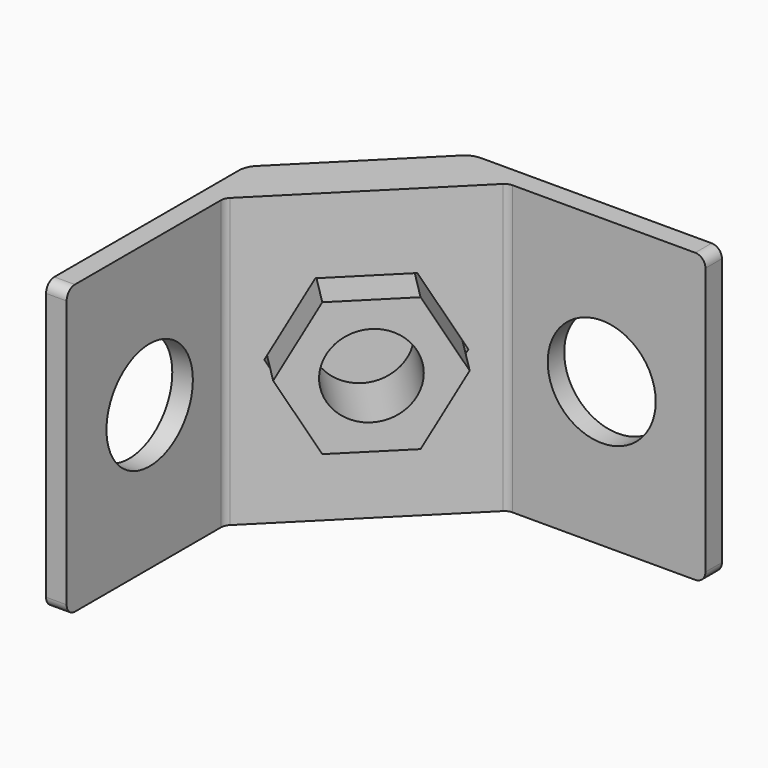
from build123d import *

# Parameters (mm, degrees)
F1_DEPTH  = 28
F3_R      = 5.25
F4_DEPTH  = 25
F6_DEPTH  = 3
F7_R      = 4
F8_DEPTH  = 6.5
F9_W      = 2
F9_H      = 3
F9_W_2    = 3
F9_H_2    = 2
F10_DEPTH = 28.001
F2_R      = 5.25
F11_DEPTH = 25
F12_R     = 1
F13_R     = 2


with BuildPart() as f1:
    # F0 (on Top) → F1 (new body)
    with BuildSketch(Plane.XY):
        Polygon((-19.75, 3.25), (-19.75, -19.75), (-17.75, -19.75), (-17.75, 2.421573), (-2.421573, 17.75), (19.75, 17.75), (19.75, 19.75), (-3.25, 19.75), (-7.492641, 19.75), (-19.75, 7.492641), align=None)
    extrude(amount=F1_DEPTH)

    # F3 (on face) → F4 (cut)
    with BuildSketch(Plane.XZ.offset(-17.75)):
        with Locations((6.664214, 14)):
            Circle(F3_R)
    extrude(amount=-F4_DEPTH, mode=Mode.SUBTRACT)

    # F5 (on face) → F6 (cut)
    with BuildSketch(Plane(origin=(-10.085786, 10.085786, 0), x_dir=(0.707107, 0.707107, 0), z_dir=(0.707107, -0.707107, 0))):
        Polygon((-3.897114, 7.25), (3.897114, 7.25), (7.794229, 14), (3.897114, 20.75), (-3.897114, 20.75), (-7.794229, 14), align=None)
    extrude(amount=-F6_DEPTH, mode=Mode.SUBTRACT)

    # F7 (on face) → F8 (join)
    with BuildSketch(Plane(origin=(-12.207107, 12.207107, 0), x_dir=(0.707107, 0.707107, 0), z_dir=(0.707107, -0.707107, 0))):
        Polygon((3.752777, 20.5), (-3.752777, 20.5), (-7.505553, 14), (-3.752777, 7.5), (3.752777, 7.5), (7.505553, 14), align=None)
        with Locations((0, 14)):
            Circle(F7_R, mode=Mode.SUBTRACT)
    extrude(amount=F8_DEPTH)

    # F9 (on face) → F10 (cut, through all)
    with BuildSketch(Plane.XY.offset(28)):
        with Locations((-18.75, -18.25)):
            Rectangle(F9_W, F9_H)
        with Locations((18.25, 18.75)):
            Rectangle(F9_W_2, F9_H_2)
    extrude(amount=-F10_DEPTH, mode=Mode.SUBTRACT)

    # F2 (on face) → F11 (cut)
    with BuildSketch(Plane.YZ.offset(-17.75)):
        with Locations((-6.664214, 14)):
            Circle(F2_R)
    extrude(amount=-F11_DEPTH, mode=Mode.SUBTRACT)

    # F12
    f12_edges = [f1.edges().sort_by_distance(p)[0] for p in [
        (-17.75, 2.421573, 14),
        (-2.421573, 17.75, 14),
        (16.75, 18.75, 28),
        (16.75, 18.75, 0),
        (-18.75, -16.75, 28),
        (-18.75, -16.75, 0),
    ]]
    fillet(f12_edges, radius=F12_R)

    # F13
    f13_edges = [f1.edges().sort_by_distance(p)[0] for p in [
        (-19.75, 7.492641, 14),
        (-7.492641, 19.75, 14),
    ]]
    fillet(f13_edges, radius=F13_R)


solid = f1.part
